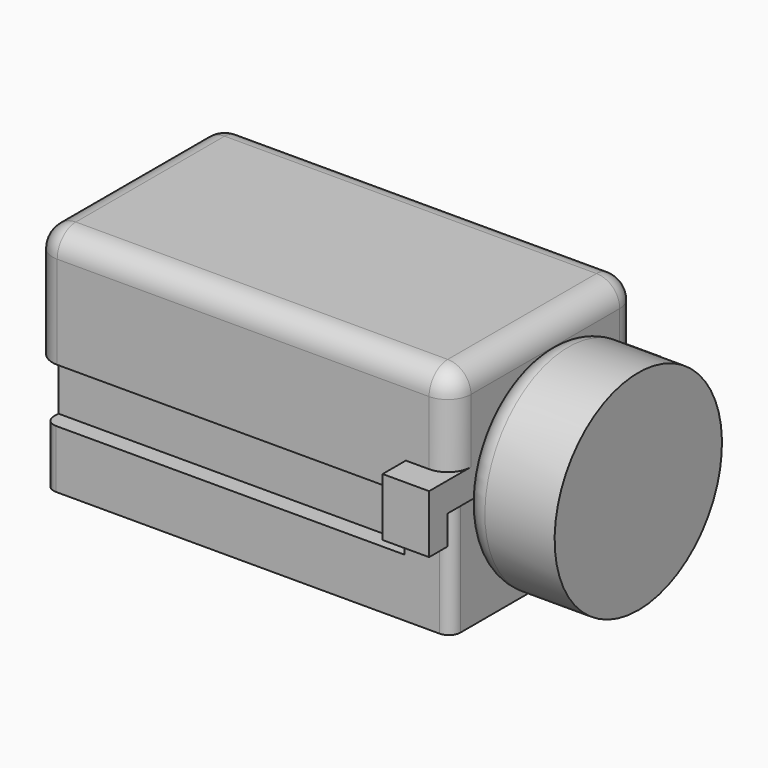
from build123d import *

# Parameters (mm, degrees)
BOX002_W       = 32
BOX002_H       = 2
BOX002_DEPTH   = 5
BOX001_W       = 32
BOX001_H       = 2
BOX001_DEPTH   = 5
BOX_W          = 35
BOX_H          = 19
BOX_DEPTH      = 10
FILLET001_R    = 1
BOX003_W       = 36
BOX003_H       = 20
BOX003_DEPTH   = 10
FILLET002_R    = 2
BOX005_W       = 6
BOX005_H       = 21
BOX005_DEPTH   = 3
BOX004_W       = 4
BOX004_H       = 25
BOX004_DEPTH   = 5
CYLINDER_R     = 9
CYLINDER_DEPTH = 8
FILLET_R       = 2


with BuildPart() as box002:
    # Box002 → Box002 (new body)
    with BuildSketch(Plane(origin=(-1, 17.5, 5), x_dir=(1, 0, 0), z_dir=(0, 0, 1))):
        with Locations((16, 1)):
            Rectangle(BOX002_W, BOX002_H)
    extrude(amount=BOX002_DEPTH)


with BuildPart() as fusion:
    # Box001 → Box001 (new body)
    with BuildSketch(Plane(origin=(-1, -0.5, 5), x_dir=(1, 0, 0), z_dir=(0, 0, 1))):
        with Locations((16, 1)):
            Rectangle(BOX001_W, BOX001_H)
    extrude(amount=BOX001_DEPTH)

    # Fusion: union Box002
    add(box002.part)


with BuildPart() as fillet001:
    # Box → Box (new body)
    with BuildSketch(Plane.XY):
        with Locations((17.5, 9.5)):
            Rectangle(BOX_W, BOX_H)
    extrude(amount=BOX_DEPTH)

    # Cut: cut Fusion
    add(fusion.part, mode=Mode.SUBTRACT)

    # Fillet001
    fillet001_edges = [fillet001.edges().sort_by_distance(p)[0] for p in [
        (0, 0, 2.5),
        (0, 19, 2.5),
        (35, 0, 5),
        (35, 19, 5),
    ]]
    fillet(fillet001_edges, radius=FILLET001_R)


with BuildPart() as fillet002:
    # Box003 → Box003 (new body)
    with BuildSketch(Plane(origin=(-0.5, -0.5, 10), x_dir=(1, 0, 0), z_dir=(0, 0, 1))):
        with Locations((18, 10)):
            Rectangle(BOX003_W, BOX003_H)
    extrude(amount=BOX003_DEPTH)

    # Fillet002
    fillet002_edges = [fillet002.edges().sort_by_distance(p)[0] for p in [
        (-0.5, -0.5, 15),
        (-0.5, 9.5, 20),
        (-0.5, 19.5, 15),
        (35.5, -0.5, 15),
        (35.5, 9.5, 20),
        (35.5, 19.5, 15),
        (17.5, -0.5, 20),
        (17.5, 19.5, 20),
    ]]
    fillet(fillet002_edges, radius=FILLET002_R)


with BuildPart() as box005:
    # Box005 → Box005 (new body)
    with BuildSketch(Plane(origin=(30.5, -1, 7), x_dir=(1, 0, 0), z_dir=(0, 0, 1))):
        with Locations((3, 10.5)):
            Rectangle(BOX005_W, BOX005_H)
    extrude(amount=BOX005_DEPTH)


with BuildPart() as cut001:
    # Box004 → Box004 (new body)
    with BuildSketch(Plane(origin=(31.5, -3, 7.5), x_dir=(1, 0, 0), z_dir=(0, 0, 1))):
        with Locations((2, 12.5)):
            Rectangle(BOX004_W, BOX004_H)
    extrude(amount=BOX004_DEPTH)

    # Cut001: cut Box005
    add(box005.part, mode=Mode.SUBTRACT)


with BuildPart() as fusion001:
    # Cylinder → Cylinder (new body)
    with BuildSketch(Plane(origin=(35.5, 9.5, 10), x_dir=(0, 0, -1), z_dir=(1, 0, 0))):
        Circle(CYLINDER_R)
    extrude(amount=CYLINDER_DEPTH)

    # Fillet
    fillet_edges = [fusion001.edges().sort_by_distance(p)[0] for p in [
        (35.5, 9.5, 19),
    ]]
    fillet(fillet_edges, radius=FILLET_R)

    # Fusion001: union Fillet001, Fillet002, Cut001
    add(fillet001.part)
    add(fillet002.part)
    add(cut001.part)


solid = fusion001.part
